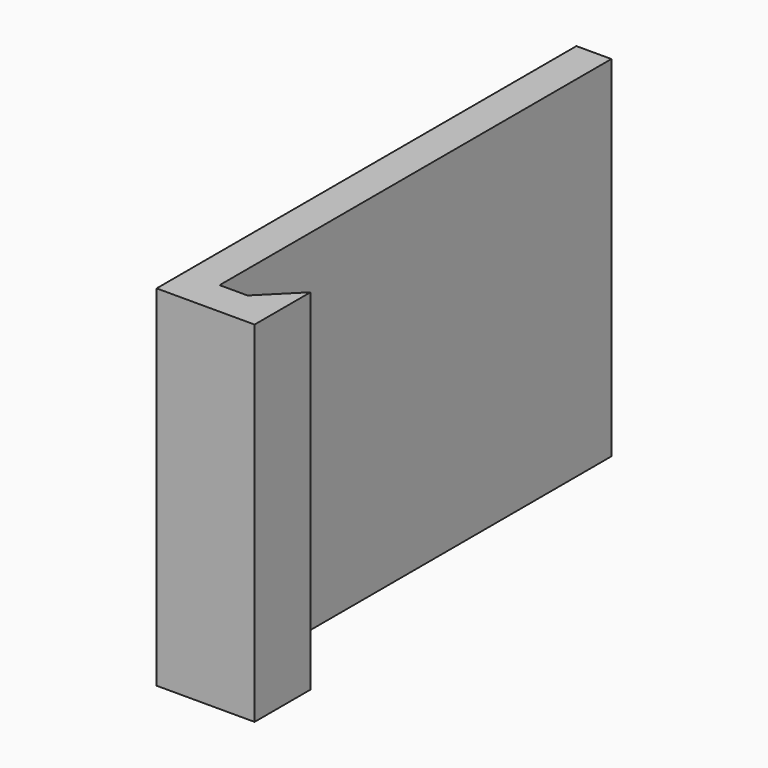
from build123d import *

# Parameters (mm, degrees)
PAD_DEPTH = 100


with BuildPart() as part:
    # Sketch → Pad (new body)
    with BuildSketch(Plane.XY):
        Polygon((0, 150), (0, 0), (28, 0), (28, 20), (18, 10), (10, 10), (10, 150), align=None)
    extrude(amount=PAD_DEPTH)


solid = part.part
